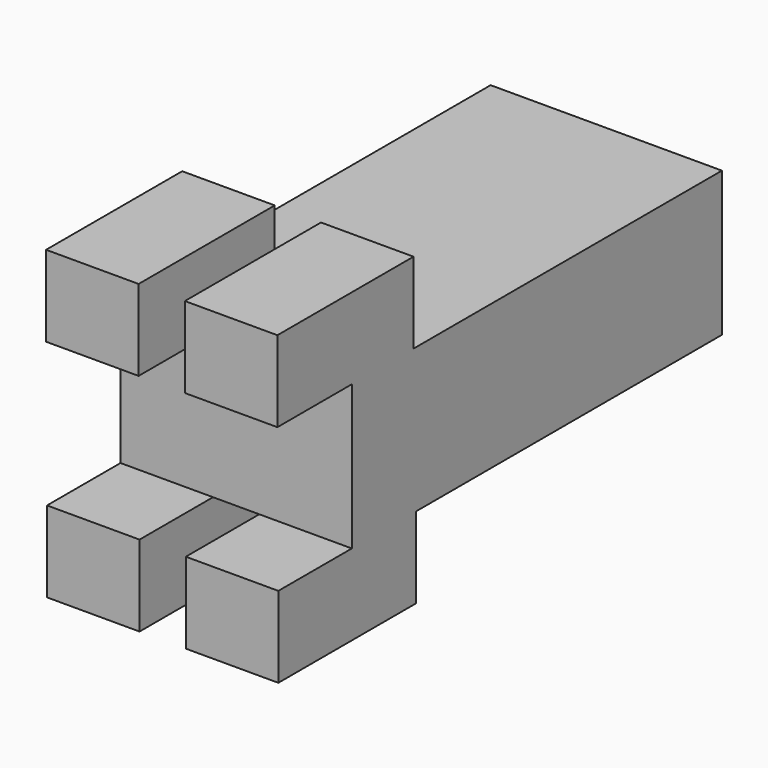
from build123d import *

# Parameters (mm, degrees)
F0_W     = 20
F0_H     = 12.5
F1_DEPTH = 40
F2_W     = 8
F2_H     = 14.7096791708
F3_DEPTH = 7
F4_W     = 8
F4_H     = 7.9405596852
F4_H_2   = 6.9329673052
F5_DEPTH = 7


with BuildPart() as f1:
    # F0 (on Front) → F1 (new body)
    with BuildSketch(Plane.XZ):
        with Locations((10, 6.25)):
            Rectangle(F0_W, F0_H)
    extrude(amount=F1_DEPTH)

    # F2 (on face) → F3 (join)
    with BuildSketch(Plane.XY.offset(12.5)):
        with Locations((4, -40.6874705773)):
            Rectangle(F2_W, F2_H)
        with Locations((16, -40.6874705773)):
            Rectangle(F2_W, F2_H)
    extrude(amount=F3_DEPTH)

    # F4 (on face) → F5 (join)
    with BuildSketch(Plane(origin=(0, 0, 0), x_dir=(1, 0, 0), z_dir=(0, 0, -1))):
        with Locations((4, 43.9702798426)):
            Rectangle(F4_W, F4_H)
        with Locations((4, 36.5335163474)):
            Rectangle(F4_W, F4_H_2)
        with Locations((16, 36.5335163474)):
            Rectangle(F4_W, F4_H_2)
        with Locations((16, 43.9702798426)):
            Rectangle(F4_W, F4_H)
    extrude(amount=F5_DEPTH)


solid = f1.part
